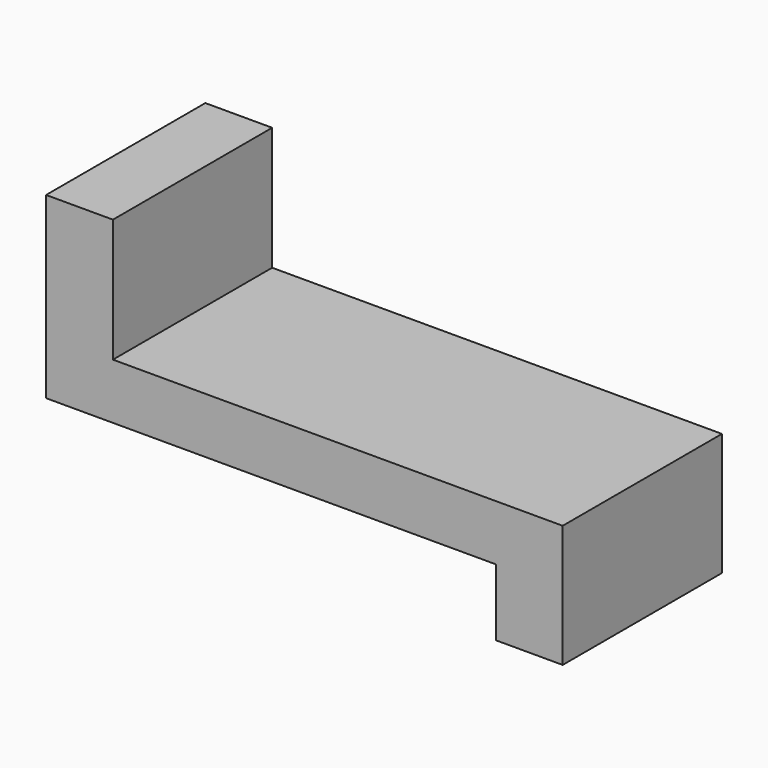
from build123d import *

# Parameters (mm, degrees)
F0_W     = 172.72
F0_H     = 66.548
F1_DEPTH = 63.5
F2_W     = 150.368
F2_H     = 22.352
F3_DEPTH = 189.62974
F4_W     = 150.368
F4_H     = 66.548
F5_DEPTH = 22.53701
F6_DEPTH = 63.5
F7_DEPTH = 41.45952
F8_DEPTH = 3.37497


with BuildPart() as f1:
    # F0 (on Top) → F1 (new body)
    with BuildSketch(Plane.XY):
        Rectangle(F0_W, F0_H)
    extrude(amount=F1_DEPTH)

    # F2 (on face) → F3 (cut)
    with BuildSketch(Plane.XZ.offset(33.274)):
        with Locations((-11.176, 11.176)):
            Rectangle(F2_W, F2_H)
    extrude(amount=-F3_DEPTH, mode=Mode.SUBTRACT)

    # F4 (on face) → F5 (cut)
    with BuildSketch(Plane.XY.offset(63.5)):
        with Locations((11.176, 0)):
            Rectangle(F4_W, F4_H)
    extrude(amount=-F5_DEPTH, mode=Mode.SUBTRACT)

    # F6 (add): a face of the model
    f6_faces = [f1.faces().sort_by_distance(p)[0] for p in [
        (-75.184, 0, 63.5),
    ]]
    extrude(f6_faces, amount=F6_DEPTH)

    # F7 (cut): a face of the model
    f7_faces = [f1.faces().sort_by_distance(p)[0] for p in [
        (-75.184, 0, 127),
    ]]
    extrude(f7_faces, amount=-F7_DEPTH, mode=Mode.SUBTRACT)

    # F8 (cut): a face of the model
    f8_faces = [f1.faces().sort_by_distance(p)[0] for p in [
        (-75.184, 0, 85.54048),
    ]]
    extrude(f8_faces, amount=-F8_DEPTH, mode=Mode.SUBTRACT)


solid = f1.part
